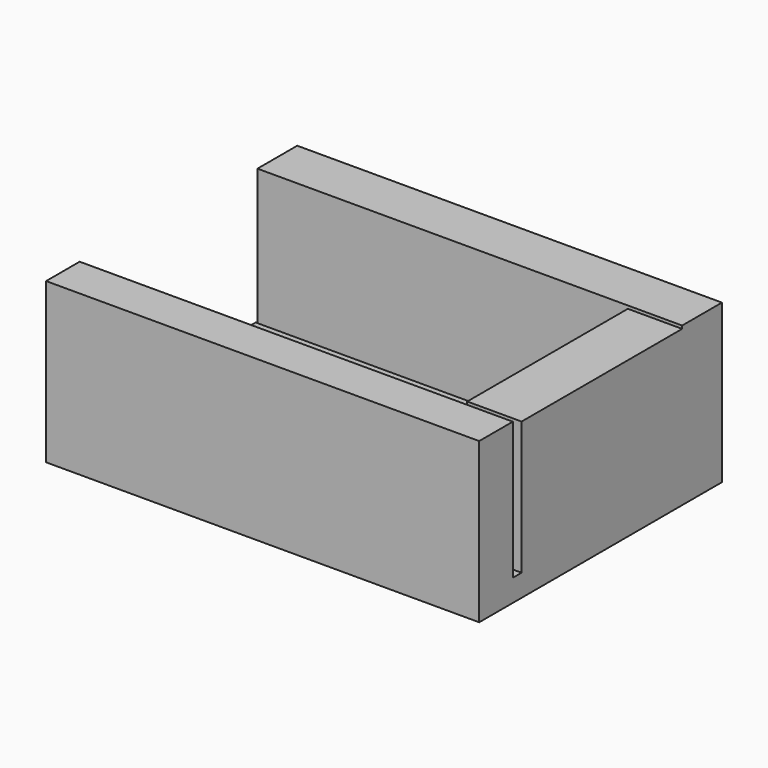
from build123d import *

# Parameters (mm, degrees)
F0_W     = 84.7769677639
F0_H     = 43.2662777603
F1_DEPTH = 4.3966565281
F2_W     = 84.4204500318
F2_H     = 9.8768174648
F3_DEPTH = 31.4335487783
F4_W     = 86.0934257507
F4_H     = 8.3434134722
F5_DEPTH = 31.7156463861
F6_W     = 10.8002573252
F6_H     = 39.9001836777
F7_DEPTH = 30.848281458


with BuildPart() as f1:
    # F0 (on Top) → F1 (new body)
    with BuildSketch(Plane.XY):
        with Locations((-42.388483882, -21.6331388801)):
            Rectangle(F0_W, F0_H)
    extrude(amount=F1_DEPTH)

    # F2 (on Top) → F3 (join)
    with BuildSketch(Plane.XY):
        with Locations((-42.2102250159, 4.9384087324)):
            Rectangle(F2_W, F2_H)
        with Locations((-42.2102250159, 4.9384087324)):
            Rectangle(F2_W, F2_H)
    extrude(amount=F3_DEPTH)

    # F4 (on Top) → F5 (join)
    with BuildSketch(Plane.XY):
        with Locations((-43.0467128754, -46.2585315108)):
            Rectangle(F4_W, F4_H)
    extrude(amount=F5_DEPTH)

    # F6 (on Top) → F7 (join)
    with BuildSketch(Plane.XY):
        with Locations((-5.4001286626, -19.9500918388)):
            Rectangle(F6_W, F6_H)
    extrude(amount=F7_DEPTH)


solid = f1.part
